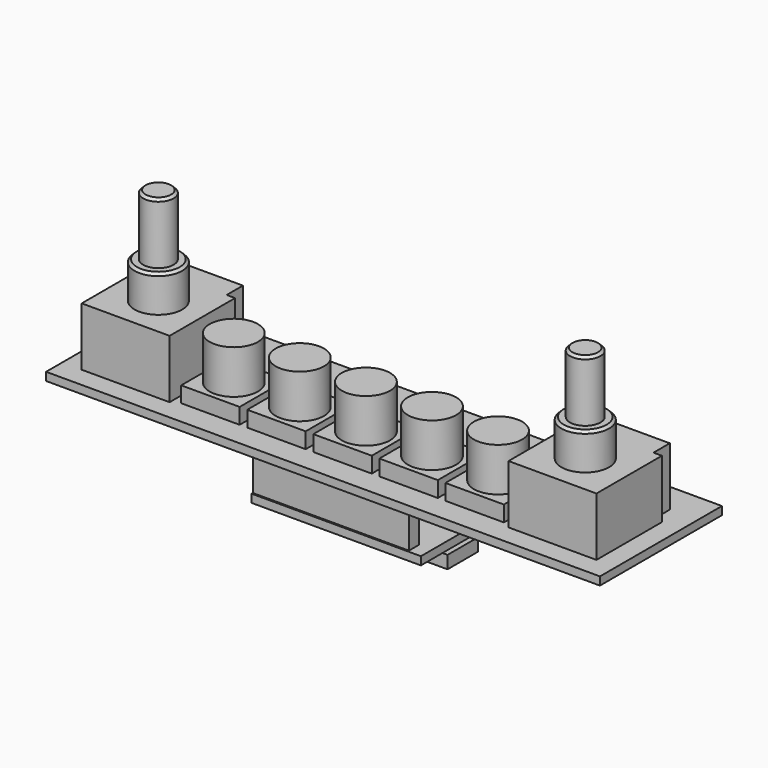
from build123d import *

# Parameters (mm, degrees)
F0_W      = 11.5
F0_H      = 11.5
F1_DEPTH  = 4.7
F0_W_2    = 109
F0_H_2    = 30
F2_DEPTH  = 1.6
F3_R      = 4.75
F4_DEPTH  = 8.6
F5_W      = 14
F5_H      = 4
F6_DEPTH  = 11.5
F7_R      = 4.7
F8_DEPTH  = 7.2
F9_R      = 3
F10_DEPTH = 12
F11_SIZE  = 0.5
F12_W     = 1.5
F12_H     = 2.5
F12_W_2   = 11.5
F12_W_3   = 2.65
F12_W_4   = 0.55
F12_W_5   = 30.7
F13_DEPTH = 12
F14_W     = 30.7
F14_H     = 2.5
F15_DEPTH = 1.6
F16_W     = 4
F16_H     = 7.5
F16_W_2   = 1
F17_DEPTH = 2.5


with BuildPart() as f1:
    # F0 (on Top) → F1 (new body)
    with BuildSketch(Plane.XY):
        with Locations((-26, -4.45)):
            Rectangle(F0_W, F0_H)
    extrude(amount=F1_DEPTH)



with BuildPart() as f1b:
    # F0 (on Top) → F1, piece 2 (new body)
    with BuildSketch(Plane.XY):
        with Locations((-13, -4.45)):
            Rectangle(F0_W, F0_H)
    extrude(amount=F1_DEPTH)


with BuildPart() as f1c:
    # F0 (on Top) → F1, piece 3 (new body)
    with BuildSketch(Plane.XY):
        with Locations((13, -4.45)):
            Rectangle(F0_W, F0_H)
    extrude(amount=F1_DEPTH)


with BuildPart() as f1d:
    # F0 (on Top) → F1, piece 4 (new body)
    with BuildSketch(Plane.XY):
        with Locations((26, -4.45)):
            Rectangle(F0_W, F0_H)
    extrude(amount=F1_DEPTH)


with BuildPart() as f1e:
    # F0 (on Top) → F1, piece 5 (new body)
    with BuildSketch(Plane.XY):
        with Locations((0, -4.45)):
            Rectangle(F0_W, F0_H)
    extrude(amount=F1_DEPTH)


with BuildPart() as f1_1:
    add(f1.part)

    add(f1b.part)  # F2 merges F1b

    add(f1c.part)  # F2 merges F1c

    add(f1d.part)  # F2 merges F1d

    add(f1e.part)  # F2 merges F1e
    # F0 (on Top) → F2 (join)
    with BuildSketch(Plane.XY):
        Rectangle(F0_W_2, F0_H_2)
        with Locations((-26, -4.45)):
            Rectangle(F0_W, F0_H, mode=Mode.SUBTRACT)
        with Locations((-13, -4.45)):
            Rectangle(F0_W, F0_H, mode=Mode.SUBTRACT)
        with Locations((0, -4.45)):
            Rectangle(F0_W, F0_H, mode=Mode.SUBTRACT)
        with Locations((13, -4.45)):
            Rectangle(F0_W, F0_H, mode=Mode.SUBTRACT)
        with Locations((26, -4.45)):
            Rectangle(F0_W, F0_H, mode=Mode.SUBTRACT)
    extrude(amount=F2_DEPTH)

    # F3 (on face) → F4 (join)
    with BuildSketch(Plane.XY.offset(4.7)):
        with Locations((-26, -4.45)):
            Circle(F3_R)
        with Locations((-13, -4.45)):
            Circle(F3_R)
        with Locations((0, -4.45)):
            Circle(F3_R)
        with Locations((13, -4.45)):
            Circle(F3_R)
        with Locations((26, -4.45)):
            Circle(F3_R)
    extrude(amount=F4_DEPTH)

    # F5 (on face) → F6 (join)
    with BuildSketch(Plane.XY.offset(1.6)):
        Polygon((-50.65, -11.05), (-33.35, -11.05), (-33.35, 5.05), (-35, 5.05), (-49, 5.05), (-50.65, 5.05), align=None)
        with Locations((-42, 7.05)):
            Rectangle(F5_W, F5_H)
        with Locations((42, 7.05)):
            Rectangle(F5_W, F5_H)
        Polygon((33.35, -11.05), (50.65, -11.05), (50.65, 5.05), (49, 5.05), (35, 5.05), (33.35, 5.05), align=None)
    extrude(amount=F6_DEPTH)

    # F7 (on face) → F8 (join)
    with BuildSketch(Plane.XY.offset(13.1)):
        with Locations((-42, -3)):
            Circle(F7_R)
        with Locations((42, -3)):
            Circle(F7_R)
    extrude(amount=F8_DEPTH)

    # F9 (on face) → F10 (join)
    with BuildSketch(Plane.XY.offset(20.3)):
        with Locations((-42, -3)):
            Circle(F9_R)
        with Locations((42, -3)):
            Circle(F9_R)
    extrude(amount=F10_DEPTH)

    # F11
    f11_edges = [f1_1.edges().sort_by_distance(p)[0] for p in [
        (-46.7, -3, 20.3),
        (37.3, -3, 20.3),
        (-45, -3, 32.3),
        (39, -3, 32.3),
    ]]
    chamfer(f11_edges, length=F11_SIZE)

    # F12 (on face) → F13 (join)
    with BuildSketch(Plane.XY):
        with Locations((-19.5, -5)):
            Rectangle(F12_W, F12_H)
        with Locations((-13, -5)):
            Rectangle(F12_W_2, F12_H)
        with Locations((-6.5, -5)):
            Rectangle(F12_W, F12_H)
        with Locations((0, -5)):
            Rectangle(F12_W_2, F12_H)
        with Locations((6.5, -5)):
            Rectangle(F12_W, F12_H)
        with Locations((8.575, -5)):
            Rectangle(F12_W_3, F12_H)
        with Locations((-20.525, -5)):
            Rectangle(F12_W_4, F12_H)
        with Locations((-5.45, 10)):
            Rectangle(F12_W_5, F12_H)
    extrude(amount=-F13_DEPTH)

    # F14 (on face) → F15 (join)
    with BuildSketch(Plane(origin=(0, 0, -12), x_dir=(1, 0, 0), z_dir=(0, 0, -1))):
        Polygon((-20.8, -11.25), (-20.8, -11.55), (12.5, -11.55), (12.5, 6.55), (-20.8, 6.55), (-20.8, -8.75), (9.9, -8.75), (9.9, -11.25), align=None)
        with Locations((-5.45, -10)):
            Rectangle(F14_W, F14_H)
    extrude(amount=F15_DEPTH)

    # F16 (on face) → F17 (join)
    with BuildSketch(Plane(origin=(0, 0, -13.6), x_dir=(1, 0, 0), z_dir=(0, 0, -1))):
        with Locations((10.5, -2.5)):
            Rectangle(F16_W, F16_H)
        with Locations((13, -2.5)):
            Rectangle(F16_W_2, F16_H)
    extrude(amount=F17_DEPTH)


solid = f1_1.part
